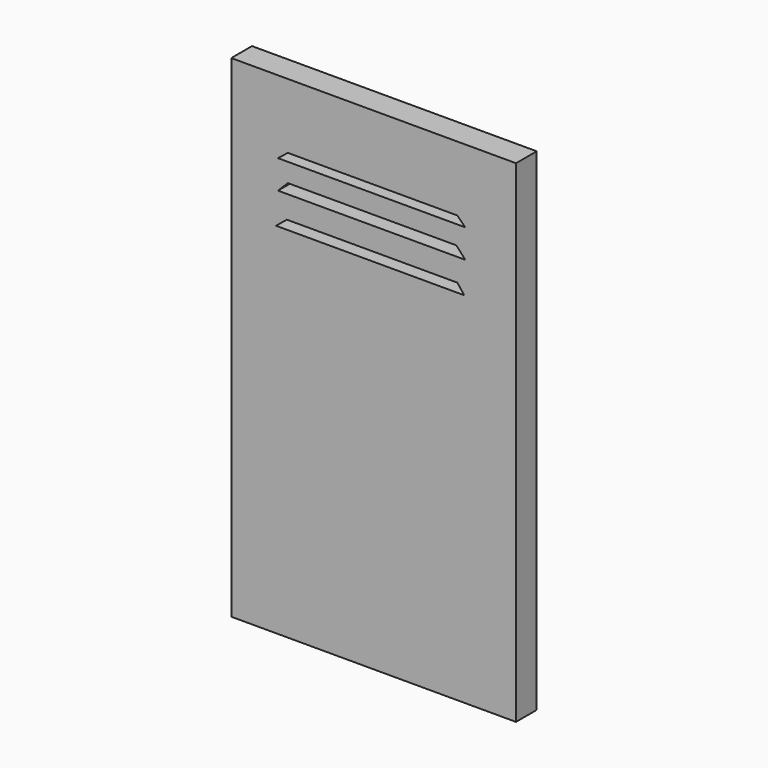
from build123d import *

# Parameters (mm, degrees)
F0_W     = 279.4
F0_H     = 482.6
F1_DEPTH = 25.4


with BuildPart() as f1:
    # F0 (on Front) → F1 (new body)
    with BuildSketch(Plane.XZ):
        Rectangle(F0_W, F0_H)
        Polygon((-95.798433, 110.726304), (-85.160971, 119.429685), (82.137294, 119.429685), (88.906586, 110.726304), align=None, mode=Mode.SUBTRACT)
        Polygon((-93.864352, 141.671643), (-84.19393, 151.342079), (81.170253, 151.342079), (89.873627, 141.671643), align=None, mode=Mode.SUBTRACT)
        Polygon((-93.864352, 169.715866), (-84.19393, 177.452207), (82.137294, 177.452207), (89.873627, 169.715866), align=None, mode=Mode.SUBTRACT)
    extrude(amount=F1_DEPTH)


solid = f1.part
